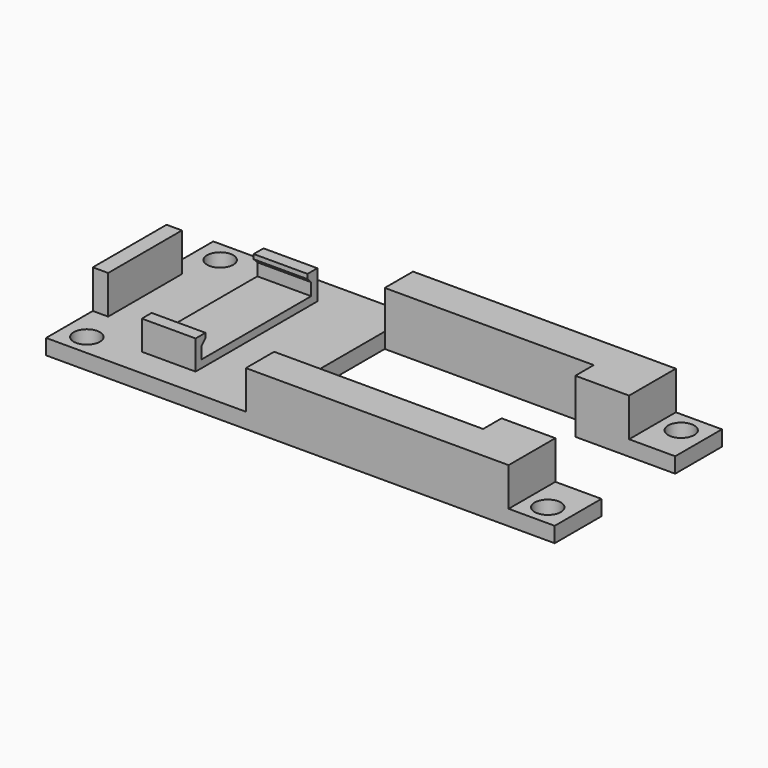
from build123d import *

# Parameters (mm, degrees)
SKETCH022_R  = 1.7
PAD005_DEPTH = 2
PAD006_DEPTH = 7
PAD007_DEPTH = 7
SKETCH025_W  = 2
SKETCH025_H  = 12
PAD008_DEPTH = 5


with BuildPart() as part:
    # Sketch022 → Pad005 (new body)
    with BuildSketch(Plane.XY):
        Polygon((-31.5, -13.6), (34.7, -13.6), (34.7, -6), (21.7, -6), (21.7, -9), (-5.5, -9), (-5.5, 9), (21.7, 9), (21.7, 6), (34.7, 6), (34.7, 13.6), (-31.5, 13.6), align=None)
        with Locations((31.6, 10.85)):
            Circle(SKETCH022_R, mode=Mode.SUBTRACT)
        with Locations((31.6, -10.85)):
            Circle(SKETCH022_R, mode=Mode.SUBTRACT)
        with Locations((-28.4, 10.85)):
            Circle(SKETCH022_R, mode=Mode.SUBTRACT)
        with Locations((-28.4, -10.85)):
            Circle(SKETCH022_R, mode=Mode.SUBTRACT)
    extrude(amount=PAD005_DEPTH)

    # Sketch023 → Pad006 (join)
    with BuildSketch(Plane.XY):
        Polygon((-5.5, 9), (-5.5, 13.6), (28.7, 13.6), (28.7, 6), (21.7, 6), (21.7, 9), align=None)
        Polygon((-5.5, -9), (-5.5, -13.6), (28.7, -13.6), (28.7, -6), (21.7, -6), (21.7, -9), align=None)
    extrude(amount=PAD006_DEPTH)

    # Sketch024 → Pad007 (join)
    with BuildSketch(Plane.YZ.offset(-15)):
        Polygon((9.9, 0), (9.9, 5.8), (8.3, 5.8), (8.3, 5.2), (8.9, 4.6), (8.9, 3), (-8.9, 3), (-8.9, 4.6), (-8.3, 5.2), (-8.3, 5.8), (-9.9, 5.8), (-9.9, 0), align=None)
    extrude(amount=-PAD007_DEPTH)

    # Sketch025 (on Face4 of Pad007) → Pad008 (join)
    with BuildSketch(Plane.XY.offset(2)):
        with Locations((-30.5, 0)):
            Rectangle(SKETCH025_W, SKETCH025_H)
    extrude(amount=PAD008_DEPTH)


solid = part.part
